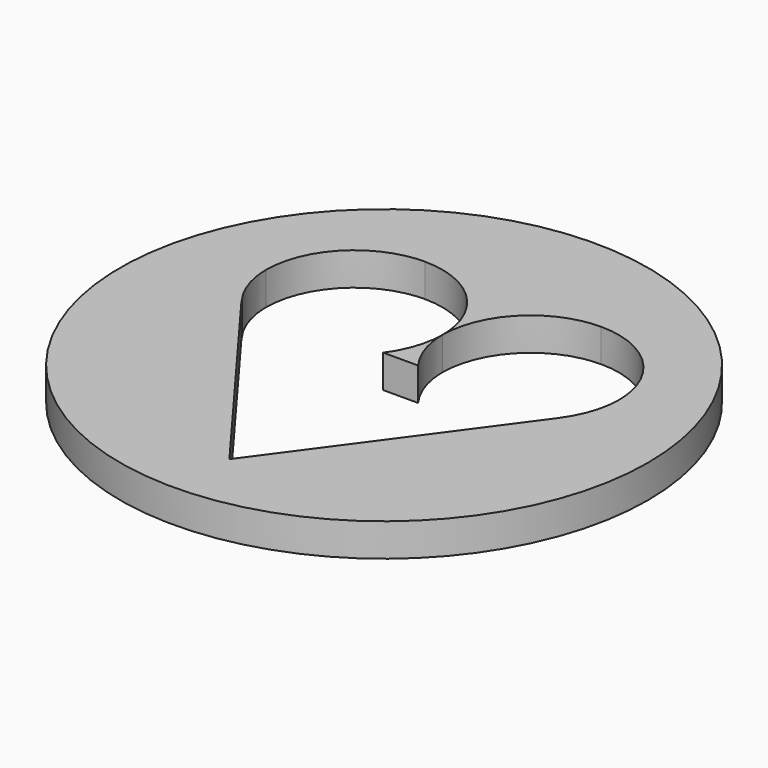
from build123d import *

# Parameters (mm, degrees)
EXTRUDE_DEPTH  = 50
CYLINDER_R     = 80
CYLINDER_DEPTH = 10


with BuildPart() as extrude_body:
    # path1 → Extrude (new body)
    with BuildSketch(Plane(origin=(141.075886, -108.47872, 0), x_dir=(0, 1, 0), z_dir=(0, 0, 1))):
        with BuildLine():
            add(Edge.make_bspline(
                [(53.97197, 26.719046), (53.971828, 53.437687), (27.253187, 53.437824)],
                knots=[0, 0, 0, 1.570786, 1.570786, 1.570786], degree=2, weights=[1, 0.70711, 1]))
            add(Edge.make_bspline(
                [(27.253187, 53.437824), (18.390196, 53.400118), (11.306873, 48.072777)],
                knots=[0, 0, 0, 0.640587, 0.640587, 0.640587], degree=2, weights=[1, 0.949143, 1]))
            add(Edge.make_bspline(
                [(11.306873, 48.072777), (11.306873, 48.157527)],
                knots=[0, 0, 0.08475, 0.08475], degree=1))
            add(Edge.make_bspline(
                [(11.306873, 48.157527), (-53.97235, -0.397134)],
                knots=[0, 0, 81.356819, 81.356819], degree=1))
            add(Edge.make_bspline(
                [(-53.97235, -0.397134), (11.476372, -48.282584)],
                knots=[0, 0, 81.09594, 81.09594], degree=1))
            add(Edge.make_bspline(
                [(11.476372, -48.282584), (11.476372, -48.199384)],
                knots=[0, 0, 0.0832, 0.0832], degree=1))
            add(Edge.make_bspline(
                [(11.476372, -48.199384), (18.507438, -53.400694), (27.253187, -53.437824)],
                knots=[0, 0, 0, 0.632671, 0.632671, 0.632671], degree=2, weights=[1, 0.950382, 1]))
            add(Edge.make_bspline(
                [(27.253187, -53.437824), (53.97183, -53.437687), (53.97197, -26.719044)],
                knots=[0, 0, 0, 1.570786, 1.570786, 1.570786], degree=2, weights=[1, 0.70711, 1]))
            add(Edge.make_bspline(
                [(53.97197, -26.719044), (53.97184, -0.000391), (27.253187, -0.000254)],
                knots=[0, 0, 0, 1.570786, 1.570786, 1.570786], degree=2, weights=[1, 0.70711, 1]))
            add(Edge.make_bspline(
                [(27.253187, -0.000254), (18.455427, -0.037512), (11.400925, -5.294504)],
                knots=[0, 0, 0, 0.636185, 0.636185, 0.636185], degree=2, weights=[1, 0.949834, 1]))
            add(Edge.make_bspline(
                [(11.400925, -5.294504), (11.382321, 5.308466)],
                knots=[0, 0, 10.602986, 10.602986], degree=1))
            add(Edge.make_bspline(
                [(11.382321, 5.308466), (18.442454, 0.037323), (27.253187, -0.000254)],
                knots=[0, 0, 0, 0.637061, 0.637061, 0.637061], degree=2, weights=[1, 0.949697, 1]))
            add(Edge.make_bspline(
                [(27.253187, -0.000254), (53.97235, -0.000117), (53.97197, 26.719046)],
                knots=[0, 0, 0, 1.570805, 1.570805, 1.570805], degree=2, weights=[1, 0.707104, 1]))
        make_face()
    extrude(amount=EXTRUDE_DEPTH)


with BuildPart() as extrude_body_1:
    # Extrude placement: moved
    add(extrude_body.part.moved(Location((-59, 182, -21))))


with BuildPart() as cut:
    # Cylinder → Cylinder (new body)
    with BuildSketch(Plane(origin=(81, 80, 0), x_dir=(1, 0, 0), z_dir=(0, 0, 1))):
        Circle(CYLINDER_R)
    extrude(amount=CYLINDER_DEPTH)

    # Cut: cut Extrude body
    add(extrude_body_1.part, mode=Mode.SUBTRACT)


solid = cut.part
